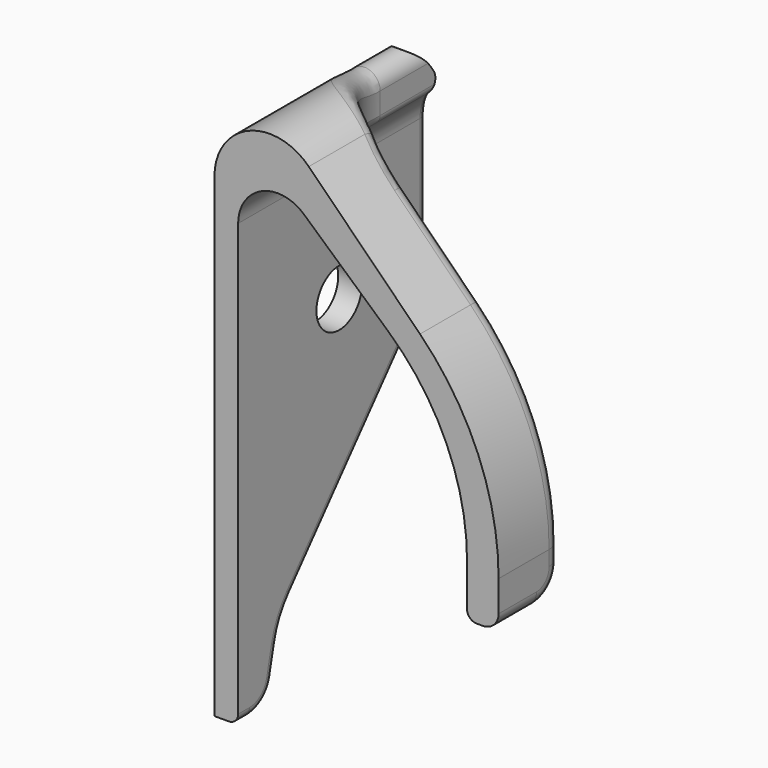
from build123d import *

# Parameters (mm, degrees)
PAD_DEPTH            = 20
POCKET_DEPTH         = 25
SKETCH002_W          = 17.431213
SKETCH002_H          = 23.854778
POCKET001_DEPTH      = 15.001
POCKET001_DEPTH_BACK = 15.001
SKETCH003_R          = 90.115698
POCKET002_DEPTH      = 13.051253
POCKET002_DEPTH_BACK = 20.564859
SKETCH004_R          = 1.8
POCKET003_DEPTH      = 1.5
FILLET_R             = 2
FILLET001_R          = 0.6
FILLET002_R          = 1
SKETCH005_R          = 100
POCKET004_DEPTH      = 15.001


with BuildPart() as part:
    # Sketch → Pad (new body)
    with BuildSketch(Plane.YZ):
        with BuildLine():
            Line((-4.319328, -15.04463), (-13.31359, -4.556947))
            ThreePointArc((-15, 0), (-14.564873, -2.429493), (-13.31359, -4.556947))
            Line((-15, 7.778943), (-15, 0))
            ThreePointArc((-11.612903, 12.511653), (-14.065988, 10.688881), (-15, 7.778943))
            ThreePointArc((11.612903, 12.511653), (0, 14.436141), (-11.612903, 12.511653))
            ThreePointArc((15, 7.778943), (14.065988, 10.688881), (11.612903, 12.511653))
            Line((15, 7.778943), (15, 0))
            ThreePointArc((13.31359, -4.556947), (14.564873, -2.429493), (15, 0))
            Line((4.319328, -15.04463), (13.31359, -4.556947))
            ThreePointArc((4.319328, -15.04463), (3.639598, -16.069564), (3.230619, -17.229416))
            Line((3.230619, -17.229416), (2.84443, -18.991929))
            ThreePointArc((0.890777, -20.563859), (2.144544, -20.122086), (2.84443, -18.991929))
            Line((-0.890778, -20.563859), (0.890777, -20.563859))
            ThreePointArc((-2.84443, -18.991929), (-2.144544, -20.122085), (-0.890778, -20.563859))
            Line((-3.230619, -17.229416), (-2.84443, -18.991929))
            ThreePointArc((-3.230619, -17.229416), (-3.639598, -16.069564), (-4.319328, -15.04463))
        make_face()
    extrude(amount=PAD_DEPTH)

    # Sketch001 → Pocket (cut, symmetric)
    with BuildSketch(Plane.XZ):
        with BuildLine():
            Line((0, 9.550253), (0, 0))
            Line((0, 0), (0, -10))
            Line((0, -10), (0, -50))
            Line((-50, -50), (0, -50))
            Line((-50, 50), (-50, -50))
            Line((50, 50), (-50, 50))
            Line((50, -50), (50, 50))
            Line((18, -50), (50, -50))
            Line((18, -10), (18, -50))
            Line((18, -7.041631), (18, -10))
            ThreePointArc((18, -7.041631), (16.705952, -0.536012), (13.020815, 4.979185))
            Line((5.974874, 12.025126), (13.020815, 4.979185))
            ThreePointArc((5.974874, 12.025126), (2.160608, 12.783831), (0, 9.550253))
        make_face()
        with BuildLine():
            Line((1.5, -50), (1.5, 7.400976))
            ThreePointArc((5.668863, 9.262399), (2.980725, 9.683754), (1.5, 7.400976))
            Line((5.668863, 9.262399), (11.013175, 4.470946))
            ThreePointArc((16, -6.697595), (14.696672, -0.581944), (11.013175, 4.470946))
            Line((16, -6.697595), (16, -50))
            Line((16, -50), (1.5, -50))
        make_face()
    extrude(amount=POCKET_DEPTH, both=True, mode=Mode.SUBTRACT)

    # Sketch002 → Pocket001 (cut, two sides)
    with BuildSketch(Plane.XZ) as pocket001_sk:
        with Locations((15.911867, -21.927389)):
            Rectangle(SKETCH002_W, SKETCH002_H)
    extrude(amount=-POCKET001_DEPTH, mode=Mode.SUBTRACT)
    extrude(pocket001_sk.sketch, amount=POCKET001_DEPTH_BACK, mode=Mode.SUBTRACT)

    # Sketch003 → Pocket002 (cut, two sides)
    with BuildSketch(Plane.XY) as pocket002_sk:
        Circle(SKETCH003_R)
        with BuildLine():
            Line((7.5, 5), (50, 5))
            Line((50, 5), (50, -5))
            Line((50, -5), (7.5, -5))
            ThreePointArc((7.5, -5), (3.964466, -6.464466), (2.5, -10))
            Line((2.5, -20), (2.5, -10))
            Line((2.5, -20), (-20, -20))
            Line((-20, -20), (-20, 20))
            Line((-20, 20), (2.5, 20))
            Line((2.5, 20), (2.5, 10))
            ThreePointArc((2.5, 10), (3.964466, 6.464466), (7.5, 5))
        make_face(mode=Mode.SUBTRACT)
    extrude(amount=POCKET002_DEPTH, mode=Mode.SUBTRACT)
    extrude(pocket002_sk.sketch, amount=-POCKET002_DEPTH_BACK, mode=Mode.SUBTRACT)

    # Sketch004 → Pocket003 (cut)
    with BuildSketch(Plane.YZ):
        with Locations((8, 0)):
            Circle(SKETCH004_R)
        with Locations((-8, 0)):
            Circle(SKETCH004_R)
    extrude(amount=POCKET003_DEPTH, mode=Mode.SUBTRACT)

    # Fillet
    fillet_edges = [part.edges().sort_by_distance(p)[0] for p in [
        (17, -5, -10),
        (17, 5, -10),
    ]]
    fillet(fillet_edges, radius=FILLET_R)

    # Fillet001
    fillet001_edges = [part.edges().sort_by_distance(p)[0] for p in [
        (5.668863, 0, 9.262399),
        (16, -5, -7.348798),
        (16, -4.414214, -9.414214),
        (16, 0, -10),
        (16, 4.414214, -9.414214),
        (16, 5, -7.348798),
        (14.696672, 5, -0.581944),
        (9.256588, 5, 6.045818),
        (6.575201, -5.08627, 8.44982),
        (14.696672, -5, -0.581944),
        (9.256588, -5, 6.045818),
        (1.507195, -15, 7.590505),
        (2.5, -12.364794, 9.400976),
        (6.575201, 5.08627, 8.44982),
        (3.39953, 7.138855, 9.827792),
        (2.5, 12.364794, 9.400976),
        (3.39953, -7.138855, 9.827792),
    ]]
    fillet(fillet001_edges, radius=FILLET001_R)

    # Fillet002
    fillet002_edges = [part.edges().sort_by_distance(p)[0] for p in [
        (3.535048, -6.95383, 13.050077),
        (6.732742, -5.059219, 11.267258),
        (10.260408, -5, 7.739592),
        (16.705952, -5, -0.536012),
        (18, -5, -7.520815),
        (18, -4.414214, -9.414214),
        (18, 0, -10),
        (18, 4.414214, -9.414214),
        (18, 5, -7.520815),
        (16.705952, 5, -0.536012),
        (10.260408, 5, 7.739592),
        (6.732742, 5.059219, 11.267258),
        (3.535048, 6.95383, 13.050077),
    ]]
    fillet(fillet002_edges, radius=FILLET002_R)

    # Sketch005 → Pocket004 (cut, through all)
    with BuildSketch(Plane.XZ):
        Circle(SKETCH005_R)
    extrude(amount=POCKET004_DEPTH, mode=Mode.SUBTRACT)


solid = part.part
